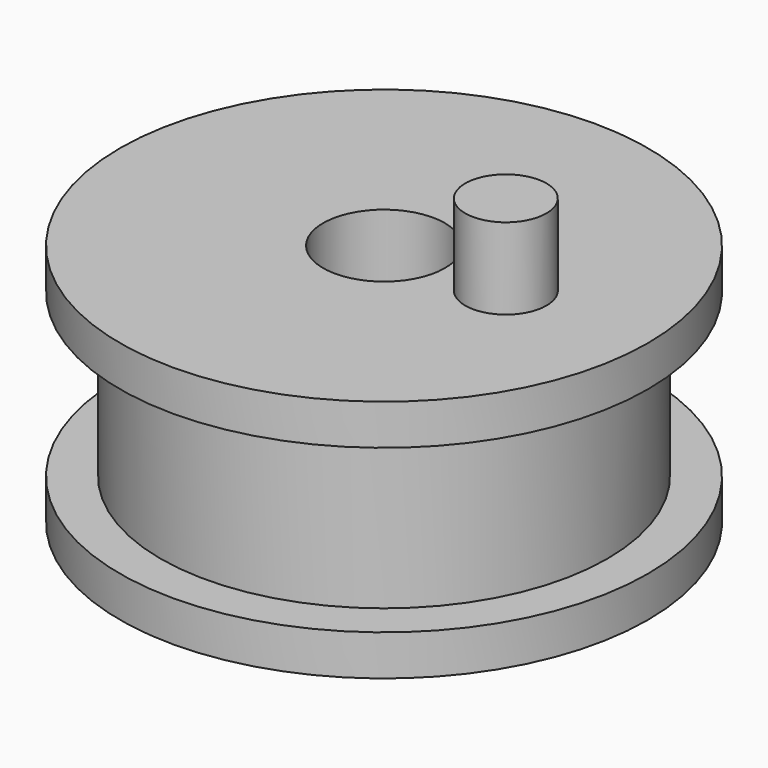
from build123d import *

# Parameters (mm, degrees)
F0_W     = 12.7
F0_H     = 12.7
F2_R     = 3.175
F3_DEPTH = 6.35


with BuildPart() as f1:
    # F0 (on Front) → F1 (revolve)
    with BuildSketch(Plane.XZ):
        Polygon((4.7625, 9.525), (4.7625, 6.35), (17.4625, 6.35), (20.6375, 6.35), (20.6375, 9.525), align=None)
        with Locations((11.1125, 0)):
            Rectangle(F0_W, F0_H)
        Polygon((17.4625, -6.35), (4.7625, -6.35), (4.7625, -9.525), (20.6375, -9.525), (20.6375, -6.35), align=None)
    revolve(axis=Axis((0, 0, 0), (0, 0, -1)))

    # F2 (on face) → F3 (join)
    with BuildSketch(Plane.XY.offset(9.525)):
        with Locations((9.525, 0)):
            Circle(F2_R)
    extrude(amount=F3_DEPTH)


solid = f1.part
